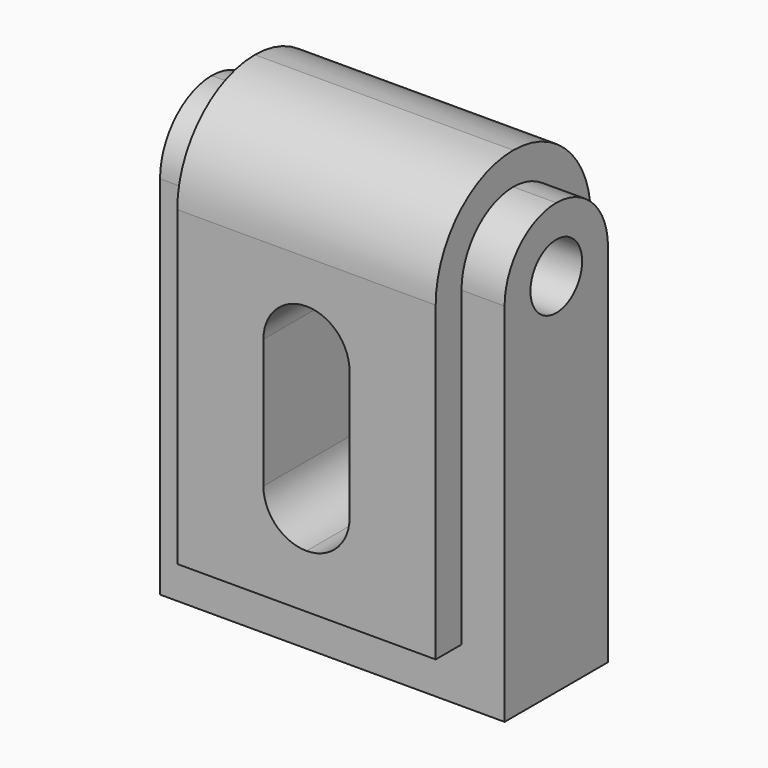
from build123d import *

# Parameters (mm, degrees)
F0_R          = 1.5
F1_DEPTH      = 8
F1_DEPTH_BACK = 8
F2_DEPTH      = 6
F2_DEPTH_BACK = 6
F4_DEPTH      = 25


with BuildPart() as f1:
    # F0 (on Right) → F1 (new body, two sides)
    with BuildSketch(Plane.YZ) as f1_sk:
        with BuildLine():
            Line((-3, -10), (3, -10))
            Line((3, -10), (3, -7.486621))
            Line((3, -7.486621), (3, 7))
            ThreePointArc((3, 7), (2.12132, 9.12132), (0, 10))
            ThreePointArc((0, 10), (-2.12132, 9.12132), (-3, 7))
            Line((-3, 7), (-3, -7.486621))
            Line((-3, -7.486621), (-3, -10))
        make_face()
        with Locations((0, 7)):
            Circle(F0_R, mode=Mode.SUBTRACT)
    extrude(amount=F1_DEPTH)
    extrude(f1_sk.sketch, amount=-F1_DEPTH_BACK)

    # F0 (on Right) → F2 (join, two sides)
    with BuildSketch(Plane.YZ) as f2_sk:
        with BuildLine():
            Line((3, 7), (3, -7.486621))
            Line((3, -7.486621), (4.5, -7.486621))
            Line((4.5, -7.486621), (4.5, 7))
            ThreePointArc((4.5, 7), (3.181981, 10.181981), (0, 11.5))
            ThreePointArc((0, 11.5), (-3.181981, 10.181981), (-4.5, 7))
            Line((-4.5, 7), (-4.5, -7.486621))
            Line((-4.5, -7.486621), (-3, -7.486621))
            Line((-3, -7.486621), (-3, 7))
            ThreePointArc((-3, 7), (-2.12132, 9.12132), (0, 10))
            ThreePointArc((0, 10), (2.12132, 9.12132), (3, 7))
        make_face()
    extrude(amount=F2_DEPTH)
    extrude(f2_sk.sketch, amount=-F2_DEPTH_BACK)

    # F3 (on face) → F4 (cut)
    with BuildSketch(Plane.XZ.offset(4.5)):
        with BuildLine():
            Line((2, -3), (2, 3))
            ThreePointArc((2, 3), (1.414214, 4.414214), (0, 5))
            ThreePointArc((0, 5), (-1.414214, 4.414214), (-2, 3))
            Line((-2, 3), (-2, -3))
            ThreePointArc((-2, -3), (-1.414214, -4.414214), (0, -5))
            ThreePointArc((0, -5), (1.414214, -4.414214), (2, -3))
        make_face()
    extrude(amount=-F4_DEPTH, mode=Mode.SUBTRACT)


solid = f1.part
